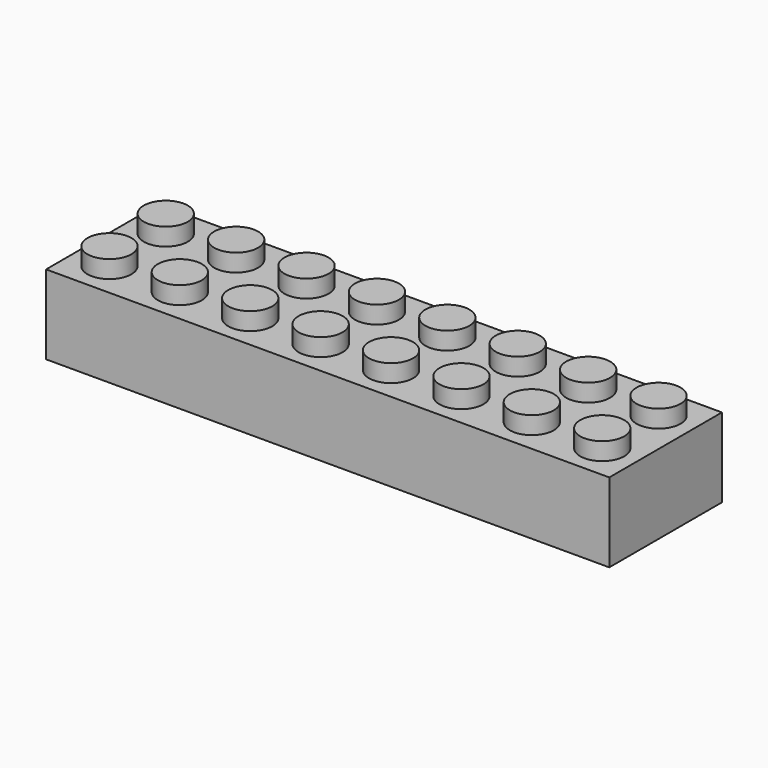
from build123d import *

# Parameters (mm, degrees)
F0_W     = 64
F0_H     = 16
F1_DEPTH = 9
F2_R     = 2.5
F3_DEPTH = 2
F4_W     = 61
F4_H     = 13
F4_R     = 3.25
F4_R_2   = 2.5
F5_DEPTH = 8
F6_R     = 1.25
F7_DEPTH = 10


with BuildPart() as f1:
    # F0 (on Top) → F1 (new body)
    with BuildSketch(Plane.XY):
        Rectangle(F0_W, F0_H)
    extrude(amount=F1_DEPTH)

    # F2 (on face) → F3 (join)
    with BuildSketch(Plane.XY.offset(9)):
        with Locations((-28, 4)):
            Circle(F2_R)
        with Locations((-28, -4)):
            Circle(F2_R)
        with Locations((-20, 4)):
            Circle(F2_R)
        with Locations((-20, -4)):
            Circle(F2_R)
        with Locations((-12, 4)):
            Circle(F2_R)
        with Locations((-12, -4)):
            Circle(F2_R)
        with Locations((-4, 4)):
            Circle(F2_R)
        with Locations((-4, -4)):
            Circle(F2_R)
        with Locations((4, 4)):
            Circle(F2_R)
        with Locations((4, -4)):
            Circle(F2_R)
        with Locations((12, 4)):
            Circle(F2_R)
        with Locations((12, -4)):
            Circle(F2_R)
        with Locations((20, 4)):
            Circle(F2_R)
        with Locations((20, -4)):
            Circle(F2_R)
        with Locations((28, 4)):
            Circle(F2_R)
        with Locations((28, -4)):
            Circle(F2_R)
    extrude(amount=F3_DEPTH)

    # F4 (on face) → F5 (cut)
    with BuildSketch(Plane(origin=(0, 0, 0), x_dir=(1, 0, 0), z_dir=(0, 0, -1))):
        Rectangle(F4_W, F4_H)
        with Locations((-24, 0)):
            Circle(F4_R, mode=Mode.SUBTRACT)
        with Locations((-16, 0)):
            Circle(F4_R, mode=Mode.SUBTRACT)
        with Locations((-8, 0)):
            Circle(F4_R, mode=Mode.SUBTRACT)
        Circle(F4_R, mode=Mode.SUBTRACT)
        with Locations((8, 0)):
            Circle(F4_R, mode=Mode.SUBTRACT)
        with Locations((16, 0)):
            Circle(F4_R, mode=Mode.SUBTRACT)
        with Locations((24, 0)):
            Circle(F4_R, mode=Mode.SUBTRACT)
        with Locations((-24, 0)):
            Circle(F4_R_2)
        with Locations((-16, 0)):
            Circle(F4_R_2)
        with Locations((-8, 0)):
            Circle(F4_R_2)
        Circle(F4_R_2)
        with Locations((8, 0)):
            Circle(F4_R_2)
        with Locations((16, 0)):
            Circle(F4_R_2)
        with Locations((24, 0)):
            Circle(F4_R_2)
    extrude(amount=-F5_DEPTH, mode=Mode.SUBTRACT)

    # F6 (on face) → F7 (cut)
    with BuildSketch(Plane(origin=(0, 0, 0), x_dir=(1, 0, 0), z_dir=(0, 0, -1))):
        with Locations((-28, 4)):
            Circle(F6_R)
        with Locations((-28, -4)):
            Circle(F6_R)
        with Locations((-20, 4)):
            Circle(F6_R)
        with Locations((-20, -4)):
            Circle(F6_R)
        with Locations((-12, 4)):
            Circle(F6_R)
        with Locations((-12, -4)):
            Circle(F6_R)
        with Locations((-4, 4)):
            Circle(F6_R)
        with Locations((-4, -4)):
            Circle(F6_R)
        with Locations((4, 4)):
            Circle(F6_R)
        with Locations((4, -4)):
            Circle(F6_R)
        with Locations((12, 4)):
            Circle(F6_R)
        with Locations((12, -4)):
            Circle(F6_R)
        with Locations((20, 4)):
            Circle(F6_R)
        with Locations((20, -4)):
            Circle(F6_R)
        with Locations((28, 4)):
            Circle(F6_R)
        with Locations((28, -4)):
            Circle(F6_R)
    extrude(amount=-F7_DEPTH, mode=Mode.SUBTRACT)


solid = f1.part
